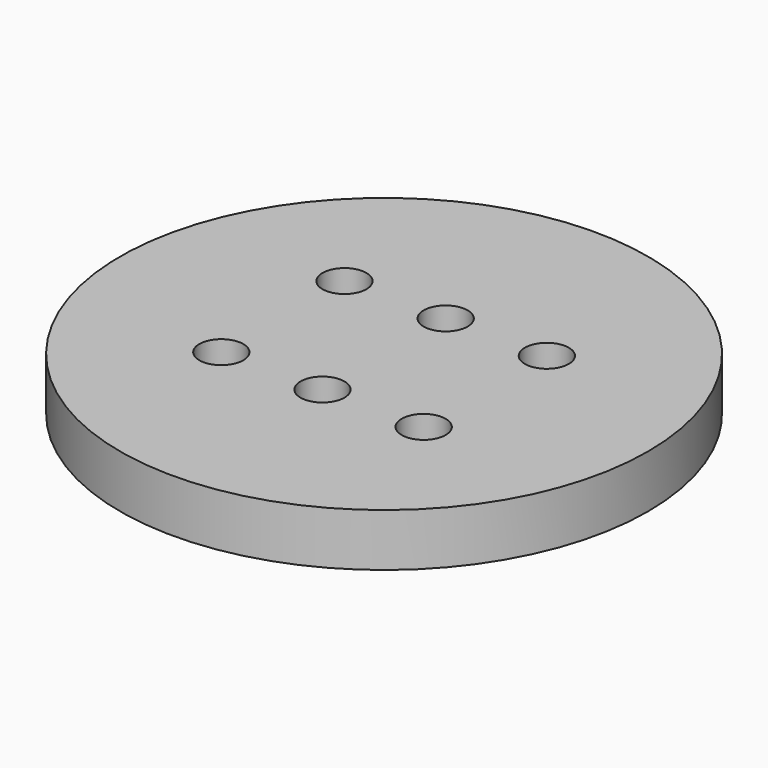
from build123d import *

# Parameters (mm, degrees)
F0_R     = 30
F0_R_2   = 2.5
F1_DEPTH = 6


with BuildPart() as f1:
    # F0 (on Top) → F1 (new body)
    with BuildSketch(Plane.XY):
        Circle(F0_R)
        with Locations((-11.5, -8.75)):
            Circle(F0_R_2, mode=Mode.SUBTRACT)
        with Locations((0, -8.75)):
            Circle(F0_R_2, mode=Mode.SUBTRACT)
        with Locations((11.5, -8.75)):
            Circle(F0_R_2, mode=Mode.SUBTRACT)
        with Locations((-11.5, 8.75)):
            Circle(F0_R_2, mode=Mode.SUBTRACT)
        with Locations((0, 8.75)):
            Circle(F0_R_2, mode=Mode.SUBTRACT)
        with Locations((11.5, 8.75)):
            Circle(F0_R_2, mode=Mode.SUBTRACT)
    extrude(amount=F1_DEPTH)


solid = f1.part
